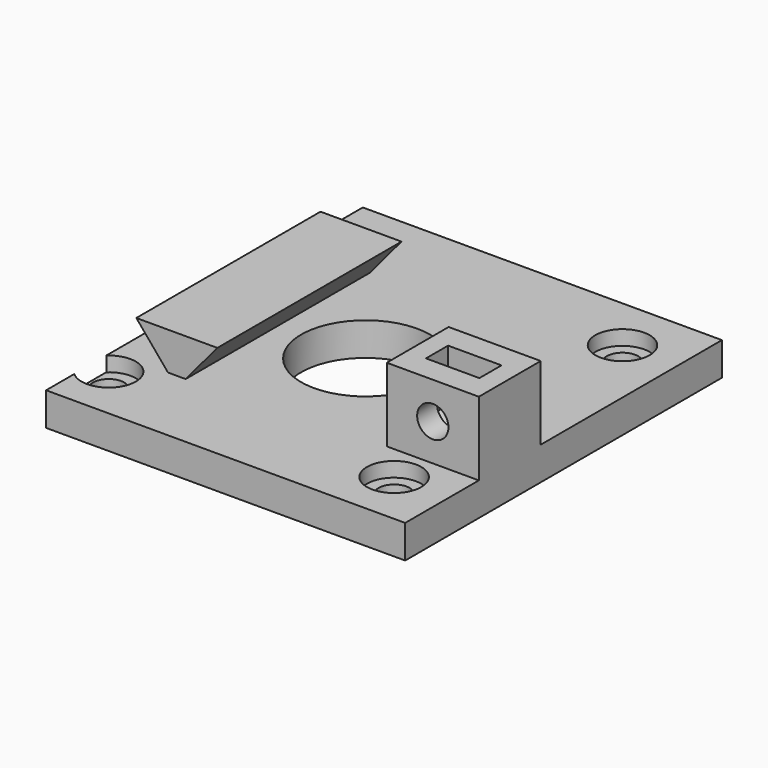
from build123d import *

# Parameters (mm, degrees)
SKETCH_W        = 39
SKETCH_H        = 43
SKETCH_R        = 7
SKETCH_R_2      = 1.7
PAD_DEPTH       = 3.6
SKETCH001_R     = 2.95
POCKET_DEPTH    = 1.6
SKETCH002_W     = 10
SKETCH002_H     = 8.4
PAD001_DEPTH    = 8
SKETCH003_R     = 1.7
POCKET001_DEPTH = 33.001
POCKET002_DEPTH = 1.5
PAD002_DEPTH    = 12.5


with BuildPart() as part:
    # Sketch → Pad (new body)
    with BuildSketch(Plane.XY):
        with Locations((2, 0)):
            Rectangle(SKETCH_W, SKETCH_H)
        Circle(SKETCH_R, mode=Mode.SUBTRACT)
        with Locations((-15.5, 15.5)):
            Circle(SKETCH_R_2, mode=Mode.SUBTRACT)
        with Locations((15.5, 15.5)):
            Circle(SKETCH_R_2, mode=Mode.SUBTRACT)
        with Locations((15.5, -15.5)):
            Circle(SKETCH_R_2, mode=Mode.SUBTRACT)
        with Locations((-15.5, -15.5)):
            Circle(SKETCH_R_2, mode=Mode.SUBTRACT)
    extrude(amount=PAD_DEPTH)

    # Sketch001 (on Face11 of Pad) → Pocket (cut)
    with BuildSketch(Plane.XY.offset(3.6)):
        with Locations((-15.5, -15.5)):
            Circle(SKETCH001_R)
        with Locations((15.5, -15.5)):
            Circle(SKETCH001_R)
        with Locations((15.5, 15.5)):
            Circle(SKETCH001_R)
        with Locations((-15.5, 15.5)):
            Circle(SKETCH001_R)
    extrude(amount=-POCKET_DEPTH, mode=Mode.SUBTRACT)

    # Sketch002 (on Face5 of Pocket) → Pad001 (join)
    with BuildSketch(Plane.XY.offset(3.6)):
        with Locations((16.5, -7.3)):
            Rectangle(SKETCH002_W, SKETCH002_H)
    extrude(amount=PAD001_DEPTH)

    # Sketch003 (on Face15 of Pad001) → Pocket001 (cut, through all)
    with BuildSketch(Plane.XZ.offset(11.5)):
        with Locations((16.5, 7.6)):
            Circle(SKETCH003_R)
    extrude(amount=-POCKET001_DEPTH, mode=Mode.SUBTRACT)

    # Sketch004 (on DatumPlane) → Pocket002 (cut, symmetric)
    with BuildSketch(Plane.XZ.offset(7.3)):
        Polygon((13.598815, 5.925), (16.5, 4.25), (19.401185, 5.925), (19.401185, 15.925), (13.598815, 15.925), align=None)
    extrude(amount=POCKET002_DEPTH, both=True, mode=Mode.SUBTRACT)

    # Sketch005 → Pad002 (join, symmetric)
    with BuildSketch(Plane.XZ):
        Polygon((-14.9, 7.7), (-6.1, 7.7), (-10.5, 2.456284), align=None)
    extrude(amount=PAD002_DEPTH, both=True)


solid = part.part
